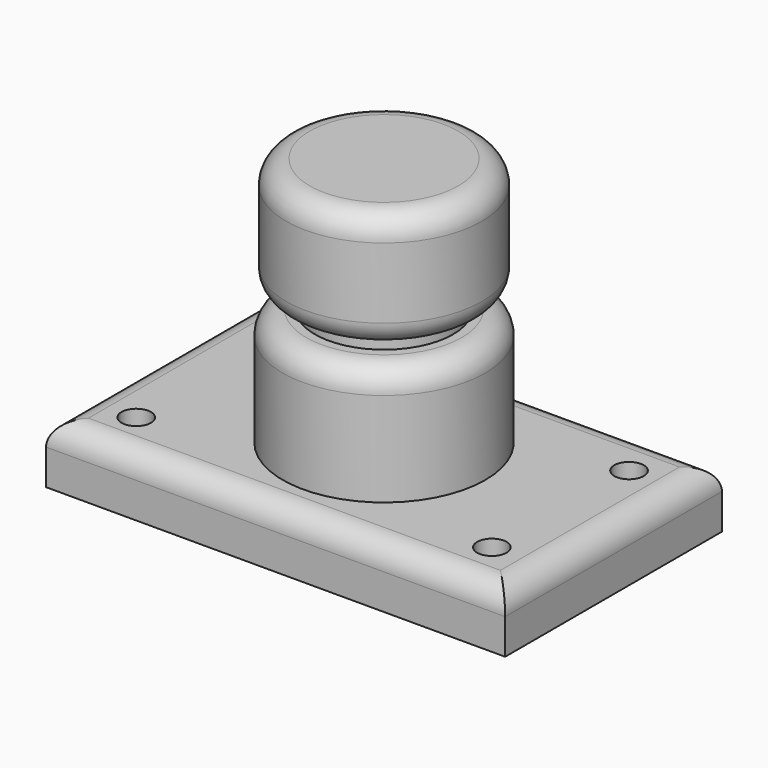
from build123d import *

# Parameters (mm, degrees)
F0_W     = 99.0809351206
F0_H     = 58.4763474762
F0_R     = 16.3683146095
F1_DEPTH = 12.7
F2_R     = 21.8636685636
F3_DEPTH = 25.4
F4_R     = 5.08
F5_R     = 14.8918944932
F6_DEPTH = 3.175
F7_R     = 21.1028142618
F7_R_2   = 14.8918944932
F8_DEPTH = 25.4
F9_R     = 5.08
F11_D    = 6.35
F12_R    = 5.08


with BuildPart() as f1:
    # F0 (on Top) → F1 (new body)
    with BuildSketch(Plane.XY):
        Rectangle(F0_W, F0_H)
        Circle(F0_R, mode=Mode.SUBTRACT)
        Circle(F0_R)
    extrude(amount=F1_DEPTH)

    # F2 (on face) → F3 (join)
    with BuildSketch(Plane.XY.offset(12.7)):
        Circle(F2_R)
    extrude(amount=F3_DEPTH)

    # F4
    f4_edges = [f1.edges().sort_by_distance(p)[0] for p in [
        (0, 29.238174, 12.7),
        (49.540468, 0, 12.7),
        (0, -29.238174, 12.7),
        (-49.540468, 0, 12.7),
    ]]
    fillet(f4_edges, radius=F4_R)

    # F5 (on face) → F6 (join)
    with BuildSketch(Plane.XY.offset(38.1)):
        Circle(F5_R)
    extrude(amount=F6_DEPTH)

    # F7 (on face) → F8 (join)
    with BuildSketch(Plane.XY.offset(41.275)):
        Circle(F7_R)
        Circle(F7_R_2, mode=Mode.SUBTRACT)
        Circle(F7_R_2)
    extrude(amount=F8_DEPTH)

    # F9
    f9_edges = [f1.edges().sort_by_distance(p)[0] for p in [
        (-21.102814, 0, 41.275),
        (-21.863669, 0, 38.1),
    ]]
    fillet(f9_edges, radius=F9_R)

    # F11 (through all)
    with Locations(Plane.XY.offset(12.7)):
        with Locations((38.6345759034, 17.8116075695), (38.0743406713, -18.4829942882), (-36.1839905381, 16.3736771792), (-38.3434481919, -18.9137440175)):
            Hole(F11_D / 2)

    # F12
    f12_edges = [f1.edges().sort_by_distance(p)[0] for p in [
        (-21.102814, 0, 66.675),
    ]]
    fillet(f12_edges, radius=F12_R)


solid = f1.part
